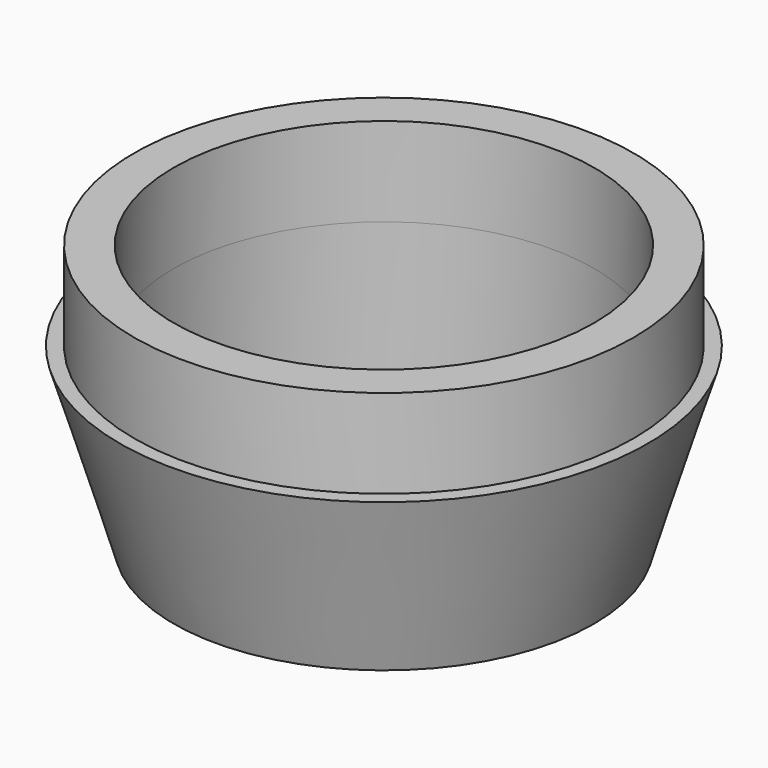
from build123d import *

# Parameters (mm, degrees)
F2_R     = 71.471843
F2_R_2   = 60.16751
F3_DEPTH = 25.4


with BuildPart() as f1:
    # F0 (on Front) → F1 (revolve)
    with BuildSketch(Plane.XZ):
        Polygon((-60.16751, -50.358362), (-60.16751, 0), (-75.529426, 0), align=None)
    revolve(axis=Axis((0, 0, -22.354487), (0, 0, -1)))

    # F2 (on face) → F3 (join)
    with BuildSketch(Plane.XY):
        Circle(F2_R)
        Circle(F2_R_2, mode=Mode.SUBTRACT)
    extrude(amount=F3_DEPTH)


solid = f1.part
